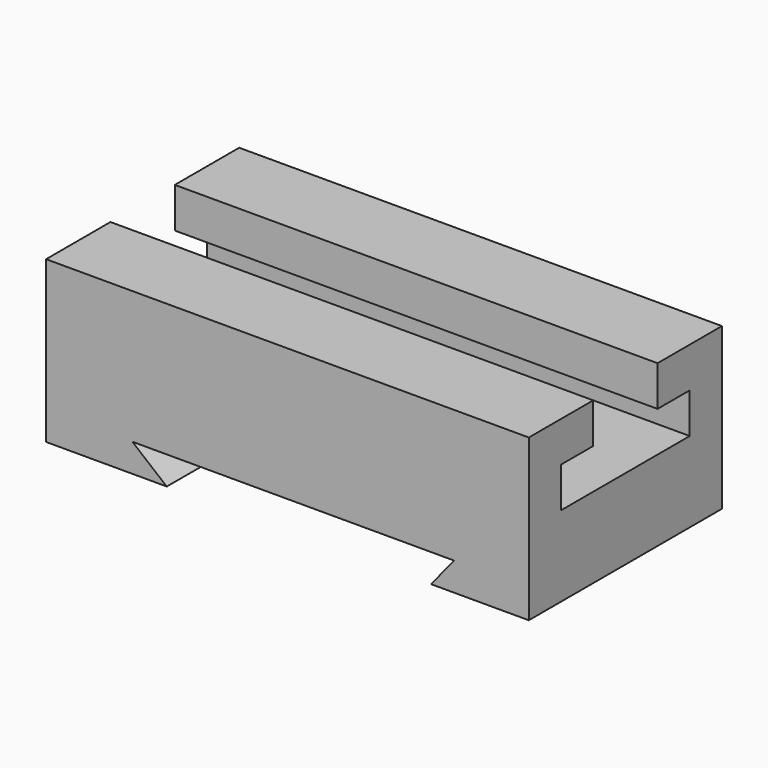
from build123d import *

# Parameters (mm, degrees)
F0_W     = 152.4
F0_H     = 50.8
F1_DEPTH = 76.2
F3_DEPTH = 76.201
F5_DEPTH = 152.401


with BuildPart() as f1:
    # F0 (on Front) → F1 (new body)
    with BuildSketch(Plane.XZ):
        with Locations((8.127087, 3.526762)):
            Rectangle(F0_W, F0_H)
    extrude(amount=F1_DEPTH)

    # F2 (on face) → F3 (cut, through all)
    with BuildSketch(Plane.XZ.offset(76.2)):
        Polygon((-40.834155, -12.95126), (-29.972913, -21.873238), (53.436877, -21.873238), (60.765845, -12.95126), align=None)
    extrude(amount=-F3_DEPTH, mode=Mode.SUBTRACT)

    # F4 (on face) → F5 (cut, through all)
    with BuildSketch(Plane.YZ.offset(84.327087)):
        Polygon((-25.4, 28.926762), (-50.8, 28.926762), (-50.8, 16.226762), (-63.5, 16.226762), (-63.5, 3.526762), (-12.7, 3.526762), (-12.7, 16.226762), (-25.4, 16.226762), align=None)
    extrude(amount=-F5_DEPTH, mode=Mode.SUBTRACT)


solid = f1.part
